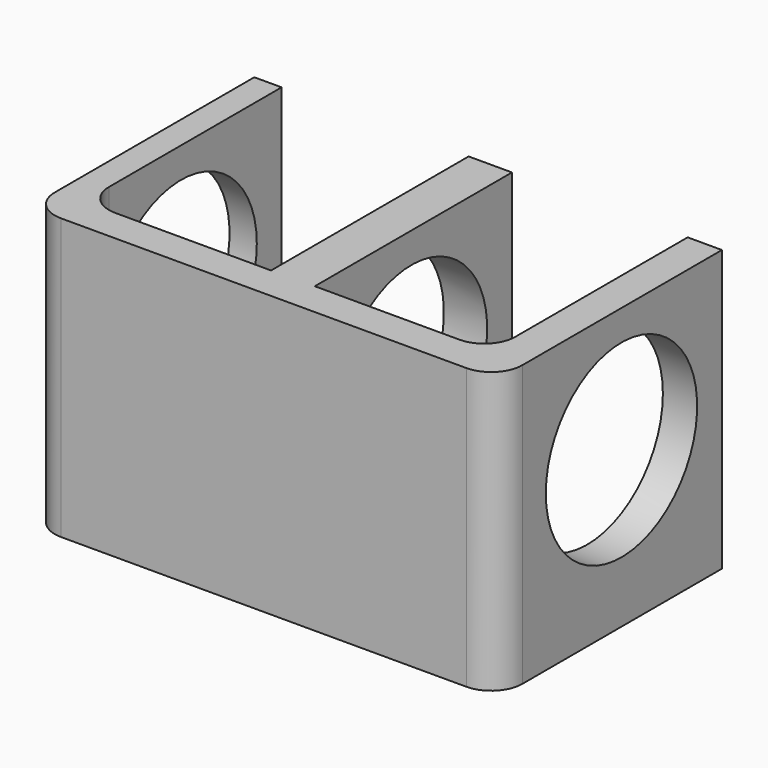
from build123d import *

# Parameters (mm, degrees)
F1_DEPTH = 45
F2_R     = 5
F3_R     = 15.170824
F4_DEPTH = 100
F5_R     = 5


with BuildPart() as f1:
    # F0 (on Top) → F1 (new body)
    with BuildSketch(Plane.XY):
        Polygon((-33.123519, 22.5), (-37.5, 22.5), (-37.5, -22.5), (37.5, -22.5), (37.5, 22.5), (32.003852, 22.5), (32.003852, -17.027041), (3.825535, -17.027041), (3.825535, 22.5), (-3.123519, 22.5), (-3.123519, -17.112833), (-33.123519, -17.112833), align=None)
    extrude(amount=F1_DEPTH)

    # F2
    f2_edges = [f1.edges().sort_by_distance(p)[0] for p in [
        (37.5, -22.5, 22.5),
        (-37.5, -22.5, 22.5),
    ]]
    fillet(f2_edges, radius=F2_R)

    # F3 (on face) → F4 (cut)
    with BuildSketch(Plane(origin=(-37.5, 0, 0), x_dir=(0, -1, 0), z_dir=(-1, 0, 0))):
        with Locations((-2.36058, 24.959255)):
            Circle(F3_R)
    extrude(amount=-F4_DEPTH, mode=Mode.SUBTRACT)

    # F5
    f5_edges = [f1.edges().sort_by_distance(p)[0] for p in [
        (-33.123519, -17.112833, 22.5),
        (32.003852, -17.027041, 22.5),
    ]]
    fillet(f5_edges, radius=F5_R)


solid = f1.part
